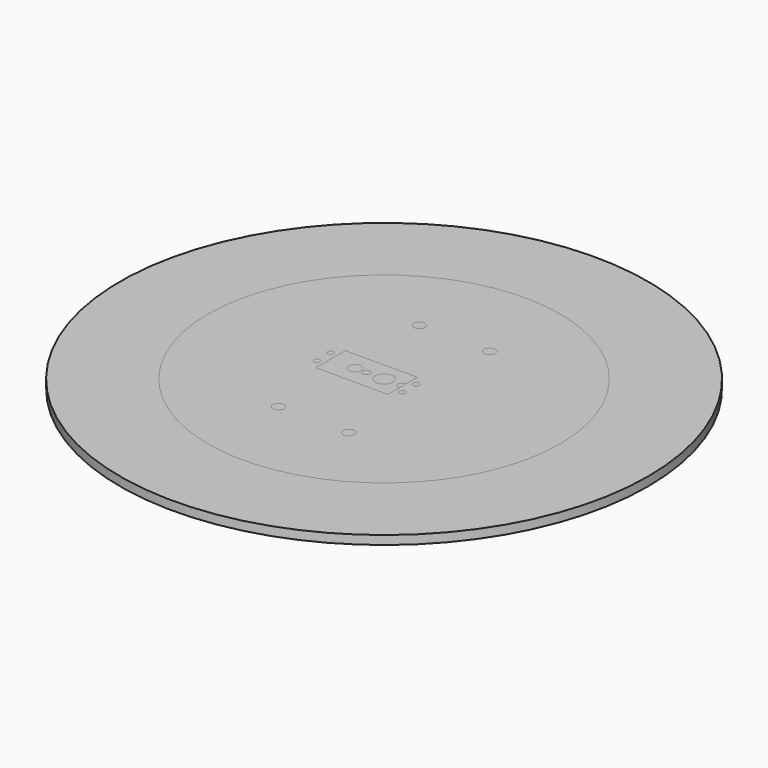
from build123d import *

# Parameters (mm, degrees)
F0_R     = 150
F1_DEPTH = 5
F2_R     = 150
F2_R_2   = 2.5
F2_R_3   = 3.2
F2_R_4   = 3.5
F2_R_5   = 2.15
F2_R_6   = 5
F3_DEPTH = 5
F4_R     = 100
F4_R_2   = 3.2
F4_R_3   = 1.7
F5_DEPTH = 5
F6_R     = 0.5


with BuildPart() as f1:
    # F0 (on Top) → F1 (new body)
    with BuildSketch(Plane.XY):
        Circle(F0_R)
    extrude(amount=F1_DEPTH)


with BuildPart() as f3:
    # F2 (on Top) → F3 (new body)
    with BuildSketch(Plane.XY):
        Circle(F2_R)
        with Locations((-10, -80)):
            Circle(F2_R_2, mode=Mode.SUBTRACT)
        with Locations((-80, -10)):
            Circle(F2_R_2, mode=Mode.SUBTRACT)
        with Locations((-15, -38.5)):
            Circle(F2_R_3, mode=Mode.SUBTRACT)
        with Locations((10, -80)):
            Circle(F2_R_2, mode=Mode.SUBTRACT)
        with Locations((15, -38.5)):
            Circle(F2_R_3, mode=Mode.SUBTRACT)
        with Locations((80, -10)):
            Circle(F2_R_2, mode=Mode.SUBTRACT)
        with Locations((-80, 10)):
            Circle(F2_R_2, mode=Mode.SUBTRACT)
        with Locations((-16.5, 0)):
            Circle(F2_R_4, mode=Mode.SUBTRACT)
        with Locations((-10, 0)):
            Circle(F2_R_5, mode=Mode.SUBTRACT)
        with Locations((-15, 38.5)):
            Circle(F2_R_3, mode=Mode.SUBTRACT)
        with Locations((-10, 80)):
            Circle(F2_R_2, mode=Mode.SUBTRACT)
        Circle(F2_R_6, mode=Mode.SUBTRACT)
        with Locations((10, 0)):
            Circle(F2_R_5, mode=Mode.SUBTRACT)
        with Locations((16.5, 0)):
            Circle(F2_R_4, mode=Mode.SUBTRACT)
        with Locations((15, 38.5)):
            Circle(F2_R_3, mode=Mode.SUBTRACT)
        with Locations((80, 10)):
            Circle(F2_R_2, mode=Mode.SUBTRACT)
        with Locations((10, 80)):
            Circle(F2_R_2, mode=Mode.SUBTRACT)
    extrude(amount=F3_DEPTH)


with BuildPart() as f5:
    # F4 (on Top) → F5 (new body)
    with BuildSketch(Plane.XY):
        Circle(F4_R)
        with Locations((-20, -50)):
            Circle(F4_R_2, mode=Mode.SUBTRACT)
        with Locations((-34.2, -4.9)):
            Circle(F4_R_3, mode=Mode.SUBTRACT)
        with Locations((20, -50)):
            Circle(F4_R_2, mode=Mode.SUBTRACT)
        with Locations((14.3, -4.9)):
            Circle(F4_R_3, mode=Mode.SUBTRACT)
        with Locations((-34.2, 4.9)):
            Circle(F4_R_3, mode=Mode.SUBTRACT)
        Polygon((-30.45, 1.5), (-30.45, 10.5), (-9.95, 10.5), (10.55, 10.5), (10.55, 1.5), (10.55, -1.5), (10.55, -10.5), (-9.95, -10.5), (-30.45, -10.5), (-30.45, -1.5), align=None, mode=Mode.SUBTRACT)
        with Locations((-20, 50)):
            Circle(F4_R_2, mode=Mode.SUBTRACT)
        with Locations((14.3, 4.9)):
            Circle(F4_R_3, mode=Mode.SUBTRACT)
        with Locations((20, 50)):
            Circle(F4_R_2, mode=Mode.SUBTRACT)
    extrude(amount=F5_DEPTH)

    # F6
    f6_edges = [f5.edges().sort_by_distance(p)[0] for p in [
        (-30.45, 10.5, 2.5),
        (-30.45, -10.5, 2.5),
        (10.55, -10.5, 2.5),
        (10.55, 10.5, 2.5),
    ]]
    fillet(f6_edges, radius=F6_R)


solid = Compound([f1.part, f3.part, f5.part])
